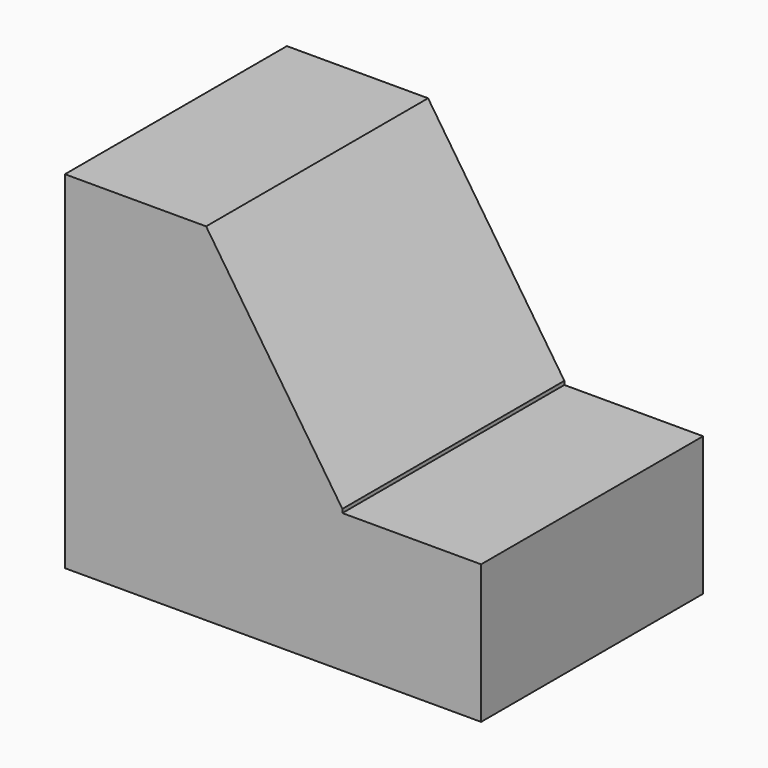
from build123d import *

# Parameters (mm, degrees)
F0_W     = 38.1
F0_H     = 31.75
F1_DEPTH = 25.4
F2_W     = 25.4
F2_H     = 19.05
F4_DEPTH = 12.7
F6_DEPTH = 25.401


with BuildPart() as f1:
    # F0 (on Front) → F1 (new body)
    with BuildSketch(Plane.XZ):
        with Locations((19.05, 15.875)):
            Rectangle(F0_W, F0_H)
    extrude(amount=F1_DEPTH)

    # F2 (on face) → F4 (cut)
    with BuildSketch(Plane.YZ.offset(38.1)):
        with Locations((-12.7, 22.225)):
            Rectangle(F2_W, F2_H)
    extrude(amount=-F4_DEPTH, mode=Mode.SUBTRACT)

    # F5 (on face) → F6 (cut, through all)
    with BuildSketch(Plane.XZ.offset(25.4)):
        Polygon((12.925296, 31.75), (25.609119, 12.724266), (25.609119, 31.75), align=None)
    extrude(amount=-F6_DEPTH, mode=Mode.SUBTRACT)


solid = f1.part
